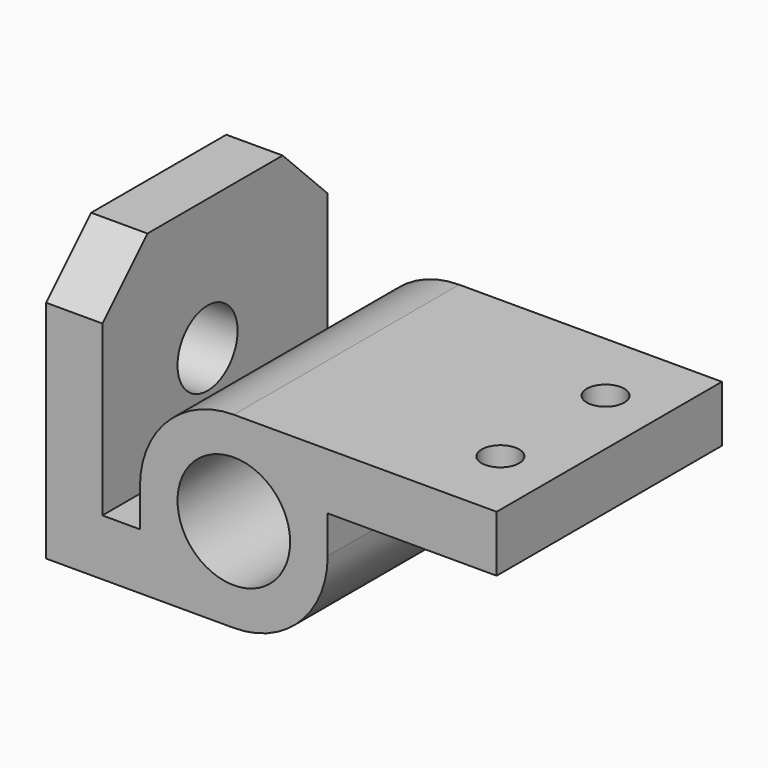
from build123d import *

# Parameters (mm, degrees)
F0_R     = 15
F0_W     = 45
F0_H     = 15
F0_W_2   = 15
F1_DEPTH = 37.5
F2_SIZE  = 15
F4_DEPTH = 15
F5_D     = 20
F5_DEPTH = 15.001
F7_D     = 10


with BuildPart() as f1:
    # F0 (on Front) → F1 (new body, symmetric)
    with BuildSketch(Plane.XZ):
        with BuildLine():
            Line((-25, -25), (0, -25))
            ThreePointArc((0, -25), (17.6776695297, -17.6776695297), (25, 0))
            Line((25, 0), (25, 10))
            Line((25, 10), (25, 25))
            Line((25, 25), (0, 25))
            ThreePointArc((0, 25), (-17.6776695297, 17.6776695297), (-25, 0))
            Line((-25, 0), (-25, -10))
            Line((-25, -10), (-25, -25))
        make_face()
        Circle(F0_R, mode=Mode.SUBTRACT)
        Polygon((-50, -25), (-25, -25), (-25, -10), (-35, -10), (-35, 35), (-50, 35), align=None)
        with Locations((47.5, 17.5)):
            Rectangle(F0_W, F0_H)
        with Locations((-42.5, 42.5)):
            Rectangle(F0_W_2, F0_H)
    extrude(amount=F1_DEPTH, both=True)

    # F2
    f2_edges = [f1.edges().sort_by_distance(p)[0] for p in [
        (-42.5, -37.5, 50),
        (-42.5, 37.5, 50),
    ]]
    chamfer(f2_edges, length=F2_SIZE)

    # F3 (on face) → F4 (join, through all)
    with BuildSketch(Plane.YZ.offset(-35)):
        with BuildLine():
            ThreePointArc((-12.5, 15), (-2.5, 5), (7.5, 15))
            ThreePointArc((7.5, 15), (4.5710678119, 22.0710678119), (-2.5, 25))
            Line((-2.5, 25), (-2.5, 15))
            Line((-2.5, 15), (-12.5, 15))
        make_face()
    extrude(amount=-F4_DEPTH)

    # F5 (through all, one way)
    with BuildSketch(Plane.YZ.offset(-35)):
        with Locations((-2.5, 15)):
            Circle(F5_D / 2)
    extrude(amount=-F5_DEPTH, mode=Mode.SUBTRACT)

    # F7 (through all)
    with Locations(Plane.XY.offset(25)):
        with Locations((55, -17.5), (55, 17.5)):
            Hole(F7_D / 2)


solid = f1.part
